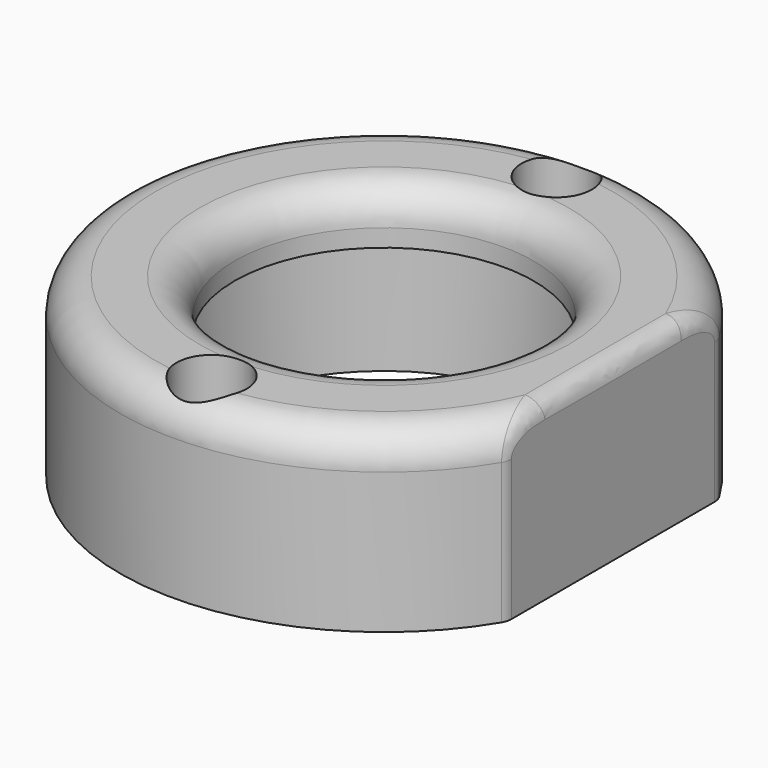
from build123d import *

# Parameters (mm, degrees)
CYLINDER009_R     = 2
CYLINDER009_DEPTH = 10
CYLINDER010_R     = 2
CYLINDER010_DEPTH = 10
BOX_W             = 4
BOX_H             = 20
BOX_DEPTH         = 10
CYLINDER004_R     = 8.5
CYLINDER004_DEPTH = 3
CYLINDER005_R     = 10.1
CYLINDER005_DEPTH = 10
CYLINDER002_R     = 15
CYLINDER002_DEPTH = 10
FILLET_R          = 2
FILLET001_R       = 2
FILLET004_R       = 1


with BuildPart() as cylinder009:
    # Cylinder009 → Cylinder009 (new body)
    with BuildSketch(Plane(origin=(0, -12.25, 0), x_dir=(1, 0, 0), z_dir=(0, 0, 1))):
        Circle(CYLINDER009_R)
    extrude(amount=CYLINDER009_DEPTH)


with BuildPart() as fusion003:
    # Cylinder010 → Cylinder010 (new body)
    with BuildSketch(Plane(origin=(0, 12.25, 0), x_dir=(1, 0, 0), z_dir=(0, 0, 1))):
        Circle(CYLINDER010_R)
    extrude(amount=CYLINDER010_DEPTH)

    # Fusion003: union Cylinder009
    add(cylinder009.part)


with BuildPart() as cube:
    # Box → Box (new body)
    with BuildSketch(Plane(origin=(13, -10, 0), x_dir=(1, 0, 0), z_dir=(0, 0, 1))):
        with Locations((2, 10)):
            Rectangle(BOX_W, BOX_H)
    extrude(amount=BOX_DEPTH)


with BuildPart() as cylinder004:
    # Cylinder004 → Cylinder004 (new body)
    with BuildSketch(Plane.XY):
        Circle(CYLINDER004_R)
    extrude(amount=CYLINDER004_DEPTH)


with BuildPart() as fusion001:
    # Cylinder005 → Cylinder005 (new body)
    with BuildSketch(Plane.XY.offset(-10)):
        Circle(CYLINDER005_R)
    extrude(amount=CYLINDER005_DEPTH)

    # Fusion001: union Cylinder004
    add(cylinder004.part)


with BuildPart() as fusion001_1:
    # Fusion001 placement: moved
    add(fusion001.part.moved(Location((0, 0, 7))))


with BuildPart() as obj1:
    # Cylinder002 → Cylinder002 (new body)
    with BuildSketch(Plane.XY):
        Circle(CYLINDER002_R)
    extrude(amount=CYLINDER002_DEPTH)

    # Cut: cut Fusion001
    add(fusion001_1.part, mode=Mode.SUBTRACT)

    # Fillet
    fillet_edges = [obj1.edges().sort_by_distance(p)[0] for p in [
        (-8.5, 0, 10),
    ]]
    fillet(fillet_edges, radius=FILLET_R)

    # Fillet001
    fillet001_edges = [obj1.edges().sort_by_distance(p)[0] for p in [
        (-15, 0, 10),
    ]]
    fillet(fillet001_edges, radius=FILLET001_R)

    # Cut002: cut Cube
    add(cube.part, mode=Mode.SUBTRACT)

    # Fillet004
    fillet004_edges = [obj1.edges().sort_by_distance(p)[0] for p in [
        (13, 4.143485, 9.893358),
        (13, -4.143485, 9.893358),
        (13, 7.483315, 4),
        (13, -7.483315, 4),
    ]]
    fillet(fillet004_edges, radius=FILLET004_R)

    # Cut005: cut Fusion003
    add(fusion003.part, mode=Mode.SUBTRACT)


solid = obj1.part
